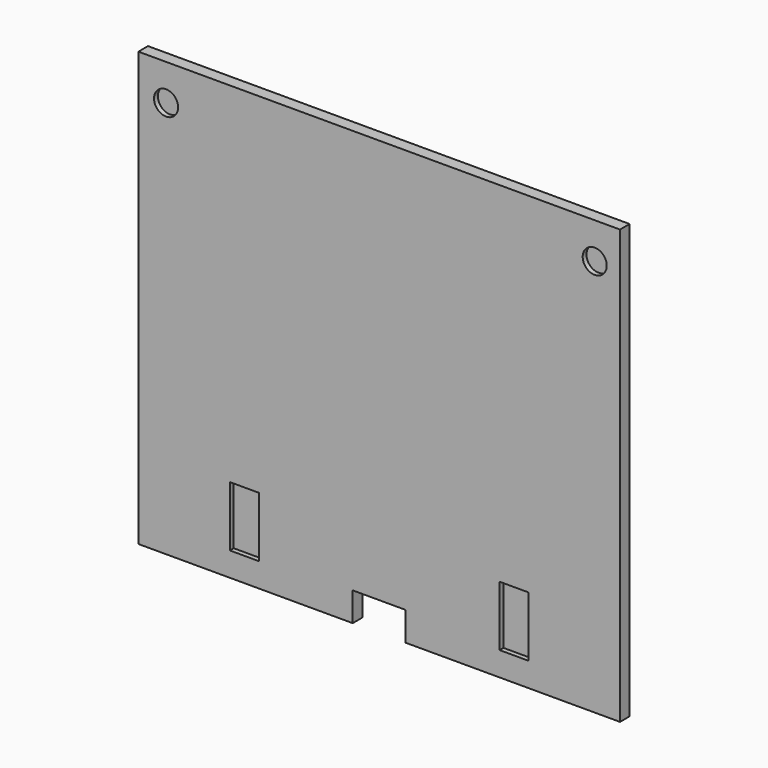
from build123d import *

# Parameters (mm, degrees)
F0_W     = 508
F0_H     = 457.2
F1_DEPTH = 12.7
F2_W     = 30.48
F2_H     = 63.5
F3_DEPTH = 5.08
F2_R     = 12.7
F4_DEPTH = 5.08
F2_W_2   = 55.88
F2_H_2   = 30.48
F5_DEPTH = 12.7


with BuildPart() as f1:
    # F0 (on Front) → F1 (new body)
    with BuildSketch(Plane.XZ):
        with Locations((16.225851, -9.961791)):
            Rectangle(F0_W, F0_H)
    extrude(amount=F1_DEPTH)

    # F2 (on face) → F3 (cut)
    with BuildSketch(Plane.XZ.offset(12.7)):
        with Locations((158.465851, -181.411791)):
            Rectangle(F2_W, F2_H)
        with Locations((-126.014149, -181.411791)):
            Rectangle(F2_W, F2_H)
    extrude(amount=-F3_DEPTH, mode=Mode.SUBTRACT)

    # F2 (on face) → F4 (cut)
    with BuildSketch(Plane.XZ.offset(12.7)):
        with Locations((-208.564149, 180.538209)):
            Circle(F2_R)
        with Locations((243.555851, 180.538209)):
            Circle(F2_R)
    extrude(amount=-F4_DEPTH, mode=Mode.SUBTRACT)

    # F2 (on face) → F5 (cut)
    with BuildSketch(Plane.XZ.offset(12.7)):
        with Locations((16.225851, -223.321791)):
            Rectangle(F2_W_2, F2_H_2)
    extrude(amount=-F5_DEPTH, mode=Mode.SUBTRACT)


solid = f1.part
